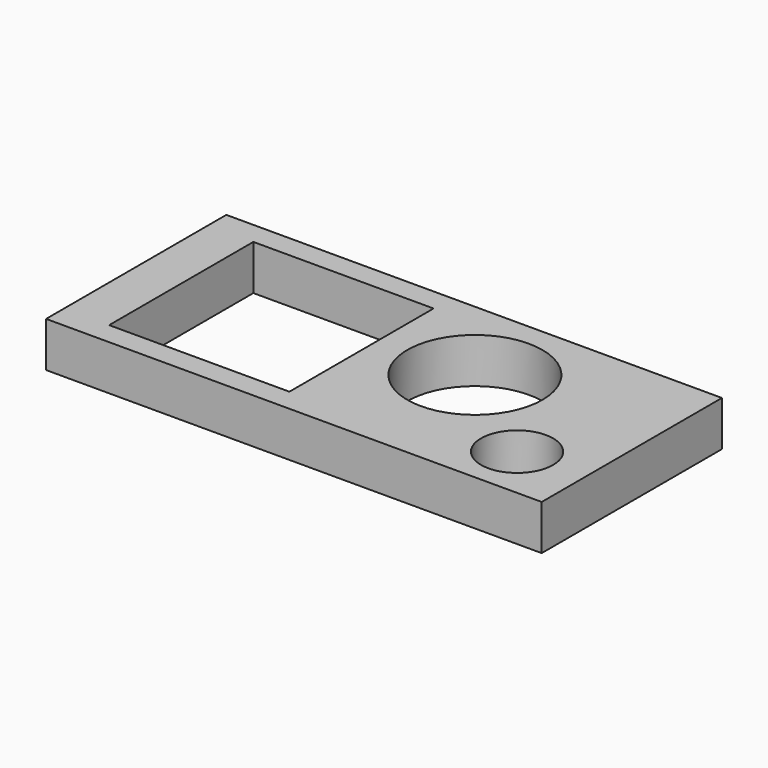
from build123d import *

# Parameters (mm, degrees)
F0_W     = 55
F0_H     = 25
F0_R     = 4
F0_W_2   = 20
F0_H_2   = 20
F0_R_2   = 7.5
F1_DEPTH = 5


with BuildPart() as f1:
    # F0 (on Top) → F1 (new body)
    with BuildSketch(Plane.XY):
        with Locations((12.5, 0)):
            Rectangle(F0_W, F0_H)
        with Locations((32.434259, -6.458126)):
            Circle(F0_R, mode=Mode.SUBTRACT)
        Rectangle(F0_W_2, F0_H_2, mode=Mode.SUBTRACT)
        with Locations((20.582465, 2.502987)):
            Circle(F0_R_2, mode=Mode.SUBTRACT)
    extrude(amount=F1_DEPTH)


solid = f1.part
